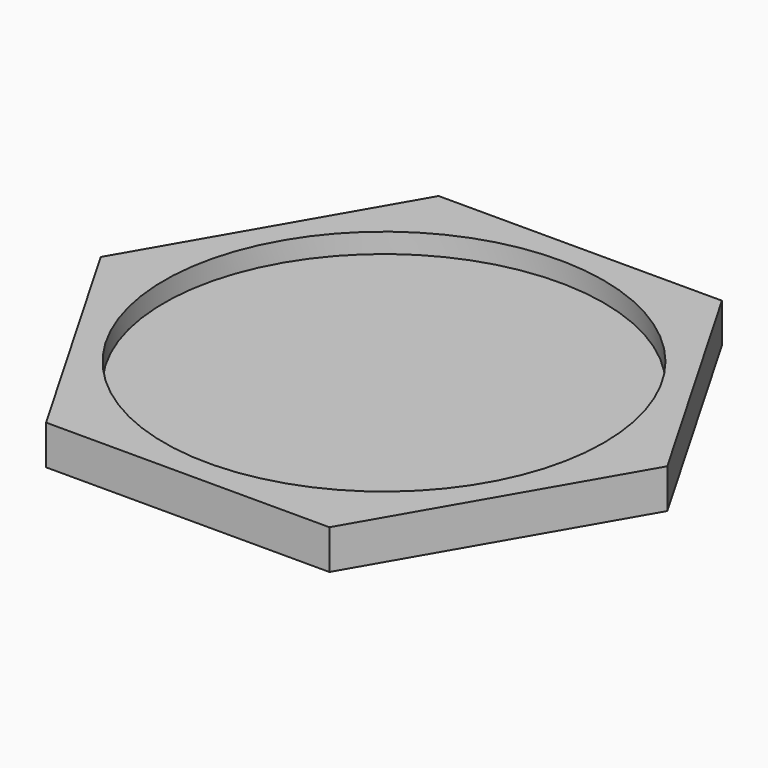
from build123d import *

# Parameters (mm, degrees)
F1_DEPTH = 6.35
F2_R     = 35.409424
F3_DEPTH = 3.175


with BuildPart() as f1:
    # F0 (on Top) → F1 (new body)
    with BuildSketch(Plane.XY):
        Polygon((22.818213, 39.522305), (-22.818213, 39.522305), (-45.636427, 0), (-22.818213, -39.522305), (22.818213, -39.522305), (45.636427, 0), align=None)
    extrude(amount=F1_DEPTH)

    # F2 (on face) → F3 (cut)
    with BuildSketch(Plane.XY.offset(6.35)):
        Circle(F2_R)
    extrude(amount=-F3_DEPTH, mode=Mode.SUBTRACT)


solid = f1.part
